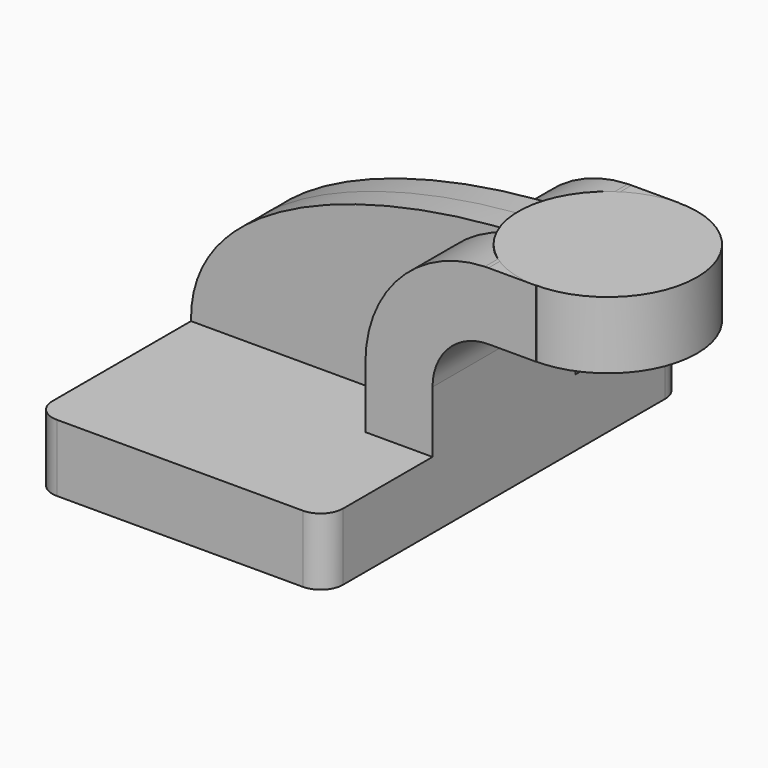
from build123d import *

# Parameters (mm, degrees)
F1_DEPTH = 63.5
F2_DEPTH = 25.4
F3_DEPTH = 7.9375
F0_W     = 25.3422030224
F0_H     = 19.05
F5_R     = 6.35


with BuildPart() as f1:
    # F0 (on Front) → F1 (new body, symmetric)
    with BuildSketch(Plane.XZ):
        Polygon((22.225, 9.525), (-41.275, 9.525), (-41.275, -9.525), (41.275, -9.525), (41.275, 9.525), align=None)
    extrude(amount=F1_DEPTH, both=True)

    # F0 (on Front) → F2 (join, symmetric)
    with BuildSketch(Plane.XZ):
        with BuildLine():
            Line((22.225, 27.0002), (22.225, 9.525))
            Line((22.225, 9.525), (41.275, 9.525))
            Line((41.275, 9.525), (41.275, 27.0002))
            ThreePointArc((41.275, 27.0002), (45.9246798487, 38.2255201513), (57.15, 42.8752))
            Line((57.15, 42.8752), (70.7242196436, 42.8752))
            Line((70.7242196436, 42.8752), (70.7242196436, 61.9252))
            Line((70.7242196436, 61.9252), (57.15, 61.9252))
            add(Edge.make_bspline(
                [(56.1133910245, 61.9098128141), (56.4604619677, 61.9160628515), (56.8060163953, 61.9211902678), (57.15, 61.9252)],
                knots=[110.5276515359, 110.5276515359, 110.5276515359, 110.5276515359, 111.5045361635, 111.5045361635, 111.5045361635, 111.5045361635], degree=3))
            ThreePointArc((56.1133910245, 61.9098128141), (32.0904789205, 51.326647095), (22.225, 27.0002))
        make_face()
    extrude(amount=F2_DEPTH, both=True)

    # F0 (on Front) → F3 (join, symmetric)
    with BuildSketch(Plane.XZ):
        with BuildLine():
            add(Edge.make_bspline(
                [(-41.275, 9.525), (-41.8373266666, 46.1244678673), (16.8447453968, 61.2026648778), (56.1133910245, 61.9098128141)],
                knots=[0, 0, 0, 0, 110.5276515359, 110.5276515359, 110.5276515359, 110.5276515359], degree=3))
            Line((-41.275, 9.525), (22.225, 9.525))
            Line((22.225, 9.525), (22.225, 27.0002))
            ThreePointArc((22.225, 27.0002), (32.0904789205, 51.326647095), (56.1133910245, 61.9098128141))
        make_face()
    extrude(amount=F3_DEPTH, both=True)

    # F5
    f5_edges = [f1.edges().sort_by_distance(p)[0] for p in [
        (41.275, -63.5, 0),
        (41.275, 63.5, 0),
        (-41.275, -63.5, 0),
        (-41.275, 63.5, 0),
    ]]
    fillet(f5_edges, radius=F5_R)


with BuildPart() as f4:
    # F0 (on Front) → F4 (revolve)
    with BuildSketch(Plane.XZ):
        with Locations((83.3953211548, 52.4002)):
            Rectangle(F0_W, F0_H)
    revolve(axis=Axis((70.7242196436, 0, 52.3875), (0, 0, -1)))


solid = Compound([f1.part, f4.part])
